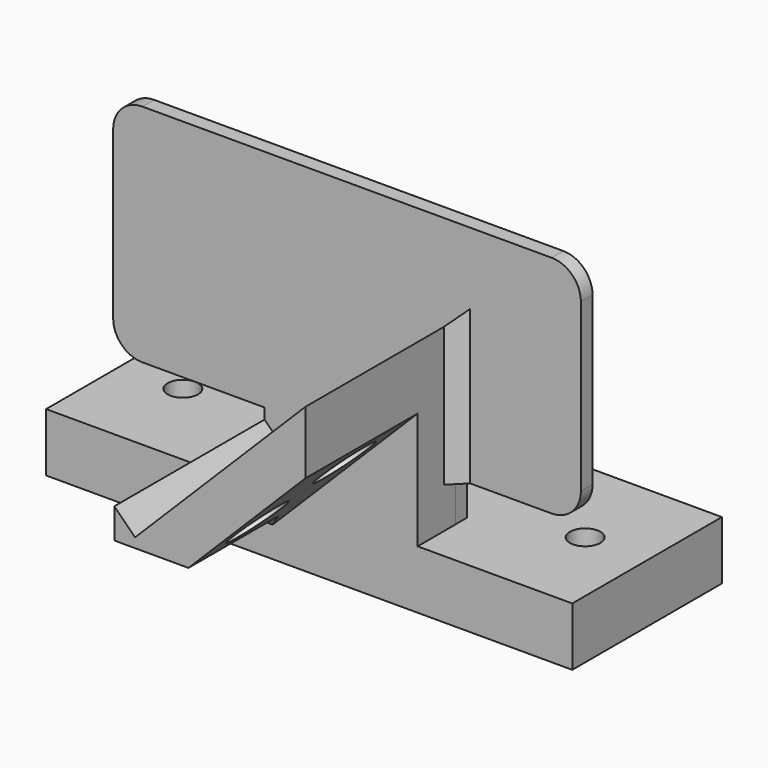
from build123d import *

# Parameters (mm, degrees)
SKETCH_W          = 57.15
SKETCH_H          = 20.32
SKETCH_R          = 1.651
PAD_DEPTH         = 3.175
PAD002_DEPTH      = 15.24
PAD002_DEPTH_BACK = 5.1402
CHAMFER_SIZE      = 12.7
CHAMFER001_SIZE   = 3.048
SKETCH004_R       = 3.2131
POCKET001_DEPTH   = 3.81762
PAD003_DEPTH      = 25.4
SKETCH006_W       = 20.744392
SKETCH006_H       = 4.445
PAD004_DEPTH      = 1.5875
PAD005_DEPTH      = 19.05
CHAMFER002_SIZE   = 1.5875
FILLET_R          = 3.175
FILLET001_R       = 0.499999
CHAMFER003_SIZE   = 0.499999


with BuildPart() as part:
    # Sketch → Pad (new body, symmetric)
    with BuildSketch(Plane.XY):
        with Locations((28.575, 10.16)):
            Rectangle(SKETCH_W, SKETCH_H)
        with Locations((6.731, 10.16)):
            Circle(SKETCH_R, mode=Mode.SUBTRACT)
        with Locations((50.419, 10.16)):
            Circle(SKETCH_R, mode=Mode.SUBTRACT)
    extrude(amount=PAD_DEPTH, both=True)

    # Sketch003 → Pad002 (join, two sides)
    with BuildSketch(Plane.XZ) as pad002_sk:
        Polygon((40.356813, 3.175), (40.356813, 22.711586), (21.857486, 4.212258), (19.612422, 6.457322), (19.612422, 3.175), align=None)
    extrude(amount=PAD002_DEPTH)
    extrude(pad002_sk.sketch, amount=-PAD002_DEPTH_BACK)

    # Chamfer
    chamfer_edges = [part.edges().sort_by_distance(p)[0] for p in [
        (40.356813, -7.62, 3.175),
    ]]
    chamfer(chamfer_edges, length=CHAMFER_SIZE)

    # Chamfer001
    chamfer001_edges = [part.edges().sort_by_distance(p)[0] for p in [
        (23.634617, 0, 3.175),
    ]]
    chamfer(chamfer001_edges, length=CHAMFER001_SIZE)

    # Sketch004 (on Face2 of Chamfer001) → Pocket001 (cut)
    with BuildSketch(Plane(origin=(12.240907, 0, -12.240907), x_dir=(0, 1, 0), z_dir=(0.707107, 0, -0.707107))):
        with Locations((-10.16, 26.67)):
            Circle(SKETCH004_R)
        with Locations((-5.08, 34.29)):
            Circle(SKETCH004_R)
    extrude(amount=-POCKET001_DEPTH, mode=Mode.SUBTRACT)

    # Sketch005 → Pad003 (join, symmetric)
    with BuildSketch(Plane.YZ.offset(28.575)):
        Polygon((6.7277, 25.84045), (6.7277, 32.075), (5.1402, 32.075), (5.1402, 7.62), (6.7277, 7.62), (6.7277, 24.25295), align=None)
    extrude(amount=PAD003_DEPTH, both=True)

    # Sketch006 → Pad004 (join)
    with BuildSketch(Plane(origin=(0, 5.1402, 0), x_dir=(-1, 0, 0), z_dir=(0, 1, 0))):
        with Locations((-29.96694, 5.3975)):
            Rectangle(SKETCH006_W, SKETCH006_H)
    extrude(amount=PAD004_DEPTH)

    # Sketch007 → Pad005 (join, symmetric)
    with BuildSketch(Plane.YZ.offset(28.575)):
        with BuildLine():
            ThreePointArc((6.7277, 21.07795), (10.423083, 22.608632), (11.95375, 26.304021))
            Line((11.95375, 26.304021), (11.95375, 27.8915))
            Line((10.36625, 27.8915), (11.95375, 27.8915))
            Line((10.36625, 26.304), (10.36625, 27.8915))
            ThreePointArc((6.7277, 22.66545), (9.300543, 23.731157), (10.36625, 26.304))
            Line((6.7277, 22.66545), (6.7277, 21.07795))
        make_face()
    extrude(amount=PAD005_DEPTH, both=True)

    # Chamfer002
    chamfer002_edges = [part.edges().sort_by_distance(p)[0] for p in [
        (40.356813, 5.1402, 15.165793),
    ]]
    chamfer(chamfer002_edges, length=CHAMFER002_SIZE)

    # Fillet
    fillet_edges = [part.edges().sort_by_distance(p)[0] for p in [
        (53.975, 5.93395, 32.075),
        (53.975, 5.93395, 7.62),
        (3.175, 5.93395, 7.62),
        (3.175, 5.93395, 32.075),
        (9.525, 11.16, 27.8915),
        (47.625, 11.16, 27.8915),
    ]]
    fillet(fillet_edges, radius=FILLET_R)

    # Fillet001
    fillet001_edges = [part.edges().sort_by_distance(p)[0] for p in [
        (28.575, 11.95375, 27.8915),
        (28.575, 10.36625, 27.8915),
    ]]
    fillet(fillet001_edges, radius=FILLET001_R)

    # Chamfer003
    chamfer003_edges = [part.edges().sort_by_distance(p)[0] for p in [
        (28.575, 6.7277, 22.66545),
    ]]
    chamfer(chamfer003_edges, length=CHAMFER003_SIZE)


solid = part.part
